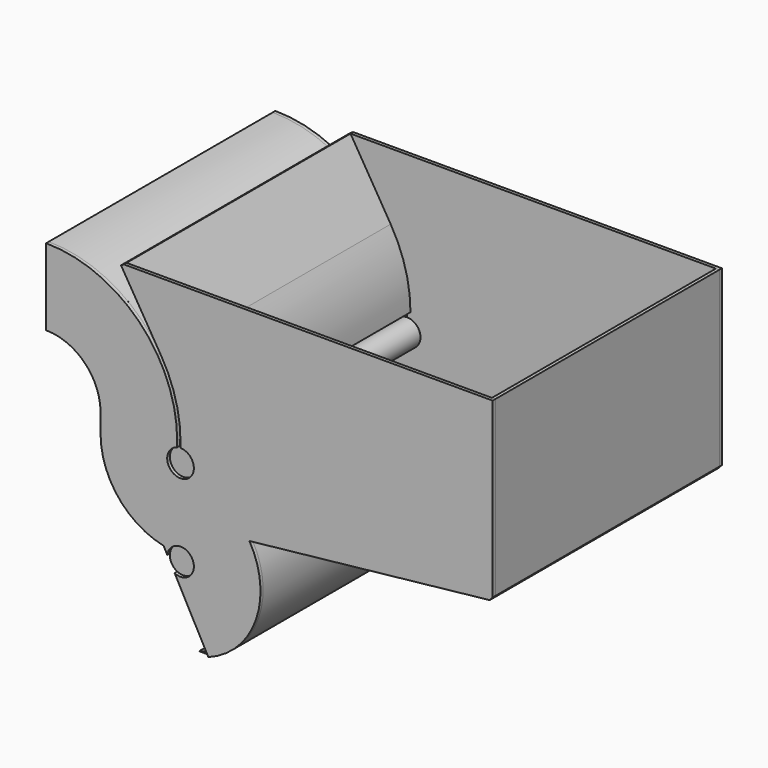
from build123d import *

# Parameters (mm, degrees)
F0_R     = 25.4
F1_DEPTH = 533.4
F3_DEPTH = 6.35
F5_DEPTH = 6.35


with BuildPart() as f1:
    # F0 (on Front) → F1 (new body)
    with BuildSketch(Plane.XZ):
        with Locations((0, 146.05)):
            Circle(F0_R)
        with BuildLine():
            Line((-32.199657, 162.190468), (-30.858004, 168.397115))
            ThreePointArc((-30.858004, 168.397115), (-113.66049, 219.433614), (-146.05, 311.15))
            Line((-146.05, 311.15), (-146.05, 347.071024))
            ThreePointArc((-146.05, 347.071024), (-178.30603, 424.94397), (-256.178976, 457.2))
            Line((-256.178976, 457.2), (-256.178976, 450.85))
            ThreePointArc((-256.178976, 450.85), (-182.796158, 420.453842), (-152.4, 347.071024))
            Line((-152.4, 347.071024), (-152.4, 311.15))
            ThreePointArc((-152.4, 311.15), (-118.602251, 215.445945), (-32.199657, 162.190468))
        make_face()
        with Locations((0, 311.15)):
            Circle(F0_R)
        with BuildLine():
            Line((-31.338232, 482.6), (-107.890994, 609.6))
            Line((-107.890994, 609.6), (-113.329399, 606.321851))
            Line((-113.329399, 606.321851), (-36.776637, 479.321851))
            ThreePointArc((-36.776637, 479.321851), (-9.365348, 415.705568), (0, 347.071024))
            Line((0, 347.071024), (6.35, 347.071024))
            ThreePointArc((6.35, 347.071024), (-3.24749, 417.406837), (-31.338232, 482.6))
        make_face()
        with BuildLine():
            ThreePointArc((120.482779, 228.6), (135.598791, 91.79532), (30.28757, 3.175))
            Line((30.28757, 3.175), (53.032956, 3.175))
            ThreePointArc((53.032956, 3.175), (143.596251, 95.002211), (131.318026, 223.389097))
            Line((131.318026, 223.389097), (589.056435, 273.087099))
            Line((589.056435, 273.087099), (594.721024, 279.4))
            Line((594.721024, 279.4), (594.721024, 609.6))
            Line((594.721024, 609.6), (588.371024, 609.6))
            Line((588.371024, 609.6), (588.371024, 279.4))
            Line((588.371024, 279.4), (120.482779, 228.6))
        make_face()
        with BuildLine():
            Line((-256.178976, 596.9), (-256.178976, 590.55))
            ThreePointArc((-256.178976, 590.55), (-84.013341, 519.236659), (-12.7, 347.071024))
            Line((-12.7, 347.071024), (-6.35, 347.071024))
            ThreePointArc((-6.35, 347.071024), (-79.523213, 523.726787), (-256.178976, 596.9))
        make_face()
    extrude(amount=F1_DEPTH)


with BuildPart() as f3:
    # F2 (on Front) → F3 (new body)
    with BuildSketch(Plane.XZ):
        with BuildLine():
            Line((-113.329399, 606.321851), (-36.776637, 479.321851))
            ThreePointArc((-36.776637, 479.321851), (-9.365348, 415.705568), (0, 347.071024))
            Line((0, 347.071024), (0, 336.55))
            ThreePointArc((0, 336.55), (3.200509, 285.952446), (-6.35, 335.743444))
            Line((-6.35, 335.743444), (-6.35, 347.071024))
            ThreePointArc((-6.35, 347.071024), (-79.523213, 523.726787), (-256.178976, 596.9))
            Line((-256.178976, 596.9), (-256.178976, 450.85))
            ThreePointArc((-256.178976, 450.85), (-182.796158, 420.453842), (-152.4, 347.071024))
            Line((-152.4, 347.071024), (-152.4, 311.15))
            ThreePointArc((-152.4, 311.15), (-118.602251, 215.445945), (-32.199657, 162.190468))
            Line((-32.199657, 162.190468), (53.032956, 3.175))
            ThreePointArc((53.032956, 3.175), (143.596251, 95.002211), (131.318026, 223.389097))
            Line((131.318026, 223.389097), (589.056435, 273.087099))
            Line((589.056435, 273.087099), (594.721024, 279.4))
            Line((594.721024, 279.4), (594.721024, 609.6))
            Line((594.721024, 609.6), (588.371024, 609.6))
            Line((588.371024, 609.6), (-107.890994, 609.6))
            Line((-107.890994, 609.6), (-113.329399, 606.321851))
        make_face()
    extrude(amount=-F3_DEPTH)


with BuildPart() as f5:
    # F4 (on face) → F5 (new body)
    with BuildSketch(Plane.XZ.offset(533.4)):
        with BuildLine():
            Line((-152.4, 347.071024), (-152.4, 311.15))
            ThreePointArc((-152.4, 311.15), (-118.602251, 215.445945), (-32.199657, 162.190468))
            Line((-32.199657, 162.190468), (-25.210084, 149.15027))
            ThreePointArc((-25.210084, 149.15027), (1.55304, 171.402477), (25.4, 146.05))
            ThreePointArc((25.4, 146.05), (13.345788, 124.438662), (-11.375586, 123.339737))
            Line((-11.375586, 123.339737), (53.032956, 3.175))
            ThreePointArc((53.032956, 3.175), (143.596251, 95.002211), (131.318026, 223.389097))
            Line((131.318026, 223.389097), (589.056435, 273.087099))
            Line((589.056435, 273.087099), (594.721024, 279.4))
            Line((594.721024, 279.4), (594.721024, 609.6))
            Line((594.721024, 609.6), (-107.890994, 609.6))
            Line((-107.890994, 609.6), (-113.329399, 606.321851))
            Line((-113.329399, 606.321851), (-36.776637, 479.321851))
            ThreePointArc((-36.776637, 479.321851), (-9.365348, 415.705568), (0, 347.071024))
            Line((0, 347.071024), (0, 336.55))
            ThreePointArc((0, 336.55), (3.200509, 285.952446), (-6.35, 335.743444))
            Line((-6.35, 335.743444), (-6.35, 347.071024))
            ThreePointArc((-6.35, 347.071024), (-16.005483, 415.85482), (-44.225594, 479.321851))
            ThreePointArc((-44.225594, 479.321851), (-134.988158, 565.536818), (-256.178976, 596.9))
            Line((-256.178976, 596.9), (-256.178976, 450.85))
            ThreePointArc((-256.178976, 450.85), (-182.796158, 420.453842), (-152.4, 347.071024))
        make_face()
    extrude(amount=F5_DEPTH)


solid = Compound([f1.part, f3.part, f5.part])
